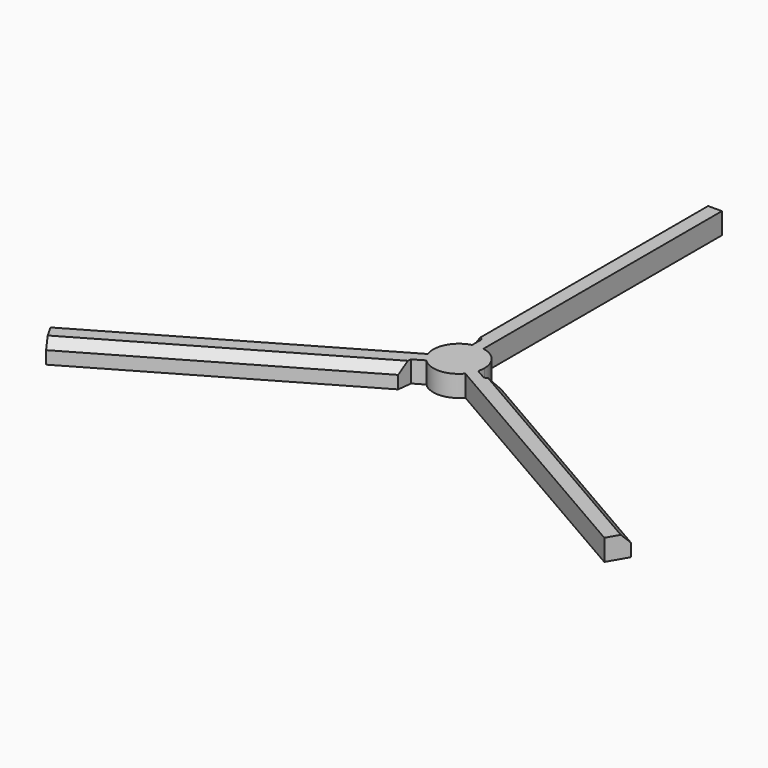
from build123d import *

# Parameters (mm, degrees)
F1_DEPTH = 1.27
F2_SIZE  = 0.508


with BuildPart() as f1:
    # F0 (on Top) → F1 (new body)
    with BuildSketch(Plane.XY):
        with BuildLine():
            ThreePointArc((1.470624, -0.3998), (1.510597, -0.201674), (1.524, 0))
            ThreePointArc((1.524, 0), (1.166482, 0.980762), (0.261671, 1.501367))
            ThreePointArc((0.261671, 1.501367), (-0.065208, 1.522604), (-0.389075, 1.473498))
            ThreePointArc((-0.389075, 1.473498), (-1.351218, 0.70483), (-1.431058, -0.52407))
            ThreePointArc((-1.431058, -0.52407), (-1.28601, -0.817774), (-1.081549, -1.073698))
            ThreePointArc((-1.081549, -1.073698), (0.065208, -1.522604), (1.169387, -0.977297))
            ThreePointArc((1.169387, -0.977297), (1.351218, -0.70483), (1.470624, -0.3998))
        make_face()
        with BuildLine():
            ThreePointArc((-0.389075, 1.473498), (-0.065208, 1.522604), (0.261671, 1.501367))
            Line((0.261671, 1.501367), (0.261671, 19.281367))
            Line((0.261671, 19.281367), (-1.068548, 19.281367))
            Line((-1.068548, 19.281367), (-1.068548, 2.698131))
            Line((-1.068548, 2.698131), (-0.389075, 2.191366))
            Line((-0.389075, 2.191366), (-0.389075, 1.473498))
        make_face()
        with BuildLine():
            Line((2.092316, -0.758734), (1.470624, -0.3998))
            ThreePointArc((1.470624, -0.3998), (1.351218, -0.70483), (1.169387, -0.977297))
            Line((1.169387, -0.977297), (16.567319, -9.867297))
            Line((16.567319, -9.867297), (17.232428, -8.715294))
            Line((17.232428, -8.715294), (2.870924, -0.423675))
            Line((2.870924, -0.423675), (2.092316, -0.758734))
        make_face()
        with BuildLine():
            ThreePointArc((-1.081549, -1.073698), (-1.28601, -0.817774), (-1.431058, -0.52407))
            Line((-1.431058, -0.52407), (-16.82899, -9.41407))
            Line((-16.82899, -9.41407), (-16.16388, -10.566074))
            Line((-16.16388, -10.566074), (-1.802376, -2.274455))
            Line((-1.802376, -2.274455), (-1.703241, -1.432632))
            Line((-1.703241, -1.432632), (-1.081549, -1.073698))
        make_face()
    extrude(amount=F1_DEPTH)

    # F2
    f2_edges = [f1.edges().sort_by_distance(p)[0] for p in [
        (-1.068548, 10.989749, 1.27),
        (-8.983128, -6.420265, 1.27),
        (10.051676, -4.569485, 1.27),
    ]]
    chamfer(f2_edges, length=F2_SIZE)


solid = f1.part
